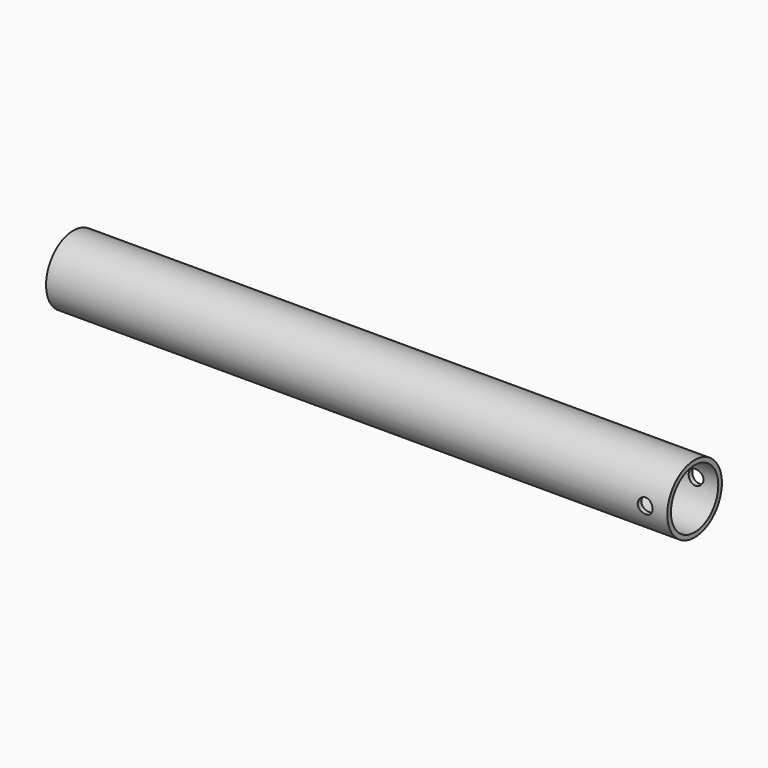
from build123d import *

# Parameters (mm, degrees)
F0_R     = 29.3116
F0_R_2   = 25.4
F1_DEPTH = 266.7
F2_R     = 6.35
F3_DEPTH = 38.1


with BuildPart() as f1:
    # F0 (on Right) → F1 (new body, symmetric)
    with BuildSketch(Plane.YZ):
        Circle(F0_R)
        Circle(F0_R_2, mode=Mode.SUBTRACT)
    extrude(amount=F1_DEPTH, both=True)

    # F2 (on Front) → F3 (cut, symmetric)
    with BuildSketch(Plane.XZ):
        with Locations((247.65, 0)):
            Circle(F2_R)
    extrude(amount=F3_DEPTH, both=True, mode=Mode.SUBTRACT)


solid = f1.part
